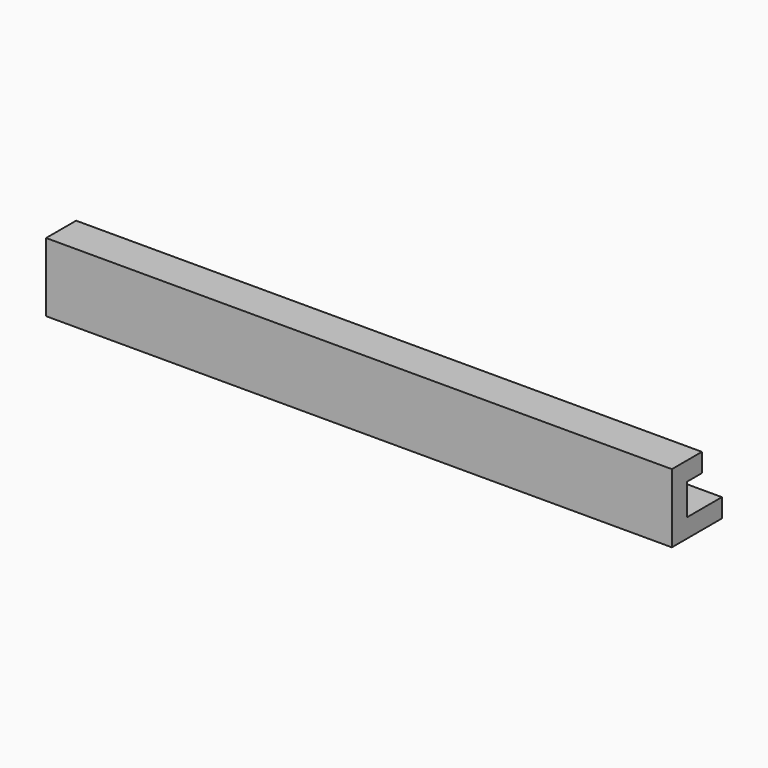
from build123d import *

# Parameters (mm, degrees)
SKETCH_W     = 100
SKETCH_H     = 10
PAD_DEPTH    = 3
SKETCH001_W  = 100
SKETCH001_H  = 3
PAD001_DEPTH = 5
SKETCH002_W  = 100
SKETCH002_H  = 6
PAD002_DEPTH = 3
SKETCH003_W  = 1
SKETCH003_H  = 3
PAD003_DEPTH = 5


with BuildPart() as part:
    # Sketch → Pad (new body)
    with BuildSketch(Plane.XY):
        with Locations((50, 5)):
            Rectangle(SKETCH_W, SKETCH_H)
    extrude(amount=PAD_DEPTH)

    # Sketch001 (on Face6 of Pad) → Pad001 (join)
    with BuildSketch(Plane.XY.offset(3)):
        with Locations((50, 1.5)):
            Rectangle(SKETCH001_W, SKETCH001_H)
    extrude(amount=PAD001_DEPTH)

    # Sketch002 (on Face10 of Pad001) → Pad002 (join)
    with BuildSketch(Plane.XY.offset(8)):
        with Locations((50, 3)):
            Rectangle(SKETCH002_W, SKETCH002_H)
    extrude(amount=PAD002_DEPTH)

    # Sketch003 (on Face15 of Pad002) → Pad003 (join)
    with BuildSketch(Plane(origin=(0, 0, 8), x_dir=(1, 0, 0), z_dir=(0, 0, -1))):
        with Locations((0.5, -4.5)):
            Rectangle(SKETCH003_W, SKETCH003_H)
    extrude(amount=PAD003_DEPTH)


solid = part.part
